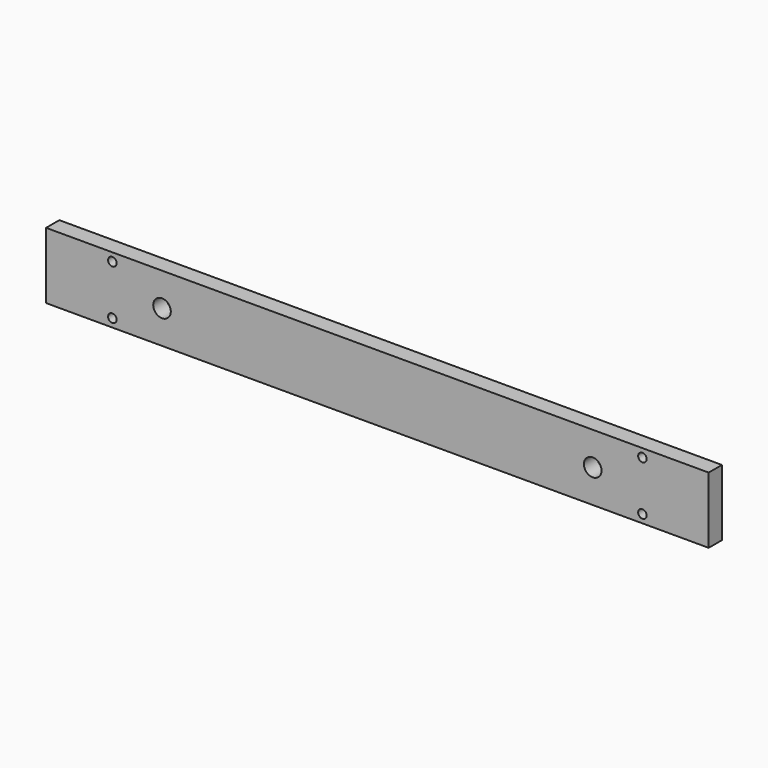
from build123d import *

# Parameters (mm, degrees)
F0_W     = 508
F0_H     = 50.8
F1_DEPTH = 12.7
F3_D     = 6.5278
F5_D     = 13.49248


with BuildPart() as f1:
    # F0 (on Front) → F1 (new body)
    with BuildSketch(Plane.XZ):
        Rectangle(F0_W, F0_H)
    extrude(amount=F1_DEPTH)

    # F3 (through all)
    with Locations(Plane.XZ.offset(12.7)):
        with Locations((-203.2, 19.05), (203.2, 19.05), (-203.2, -19.05), (203.2, -19.05)):
            Hole(F3_D / 2)

    # F5 (through all)
    with Locations(Plane.XZ.offset(12.7)):
        with Locations((165.1, 0), (-165.1, 0)):
            Hole(F5_D / 2)


solid = f1.part
